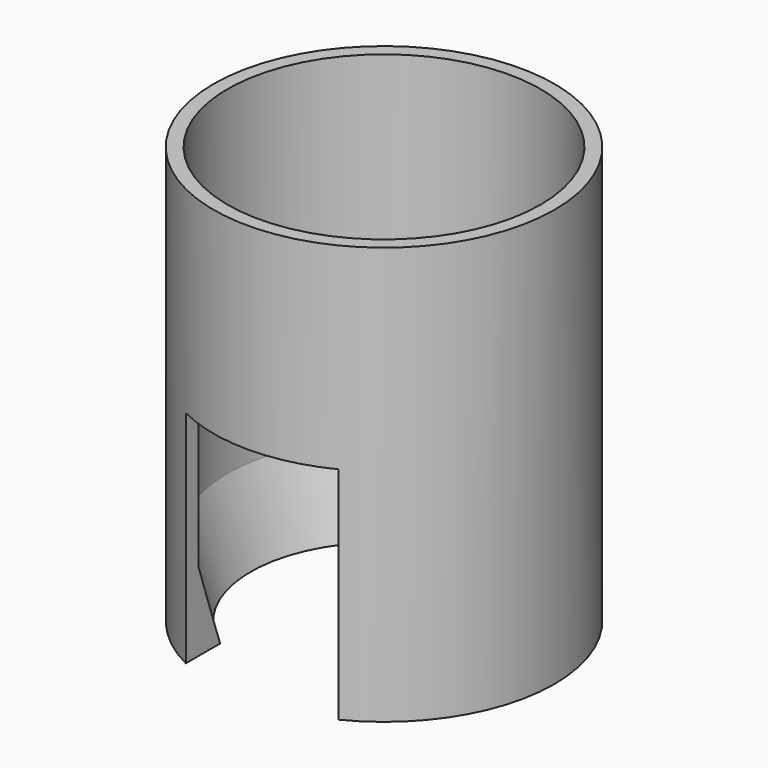
from build123d import *

# Parameters (mm, degrees)
F0_R     = 24.5
F0_R_2   = 22.5
F1_DEPTH = 60
F4_W     = 21.917041
F4_H     = 35.913566
F5_DEPTH = 25


with BuildPart() as f1:
    # F0 (on Top) → F1 (new body)
    with BuildSketch(Plane.XY):
        Circle(F0_R)
        Circle(F0_R_2, mode=Mode.SUBTRACT)
    extrude(amount=F1_DEPTH)

    # F2 (on Front) → F3 (revolve)
    with BuildSketch(Plane.XZ):
        Polygon((23.440696, 11.506858), (22.541139, 11.506858), (19.177632, 0), (23.440696, 0), align=None)
    revolve(axis=Axis((0, 0, 8.668173), (0, 0, -1)))

    # F4 (on Front) → F5 (cut)
    with BuildSketch(Plane.XZ):
        with Locations((0.000676, 13.722296)):
            Rectangle(F4_W, F4_H)
    extrude(amount=F5_DEPTH, mode=Mode.SUBTRACT)


solid = f1.part
